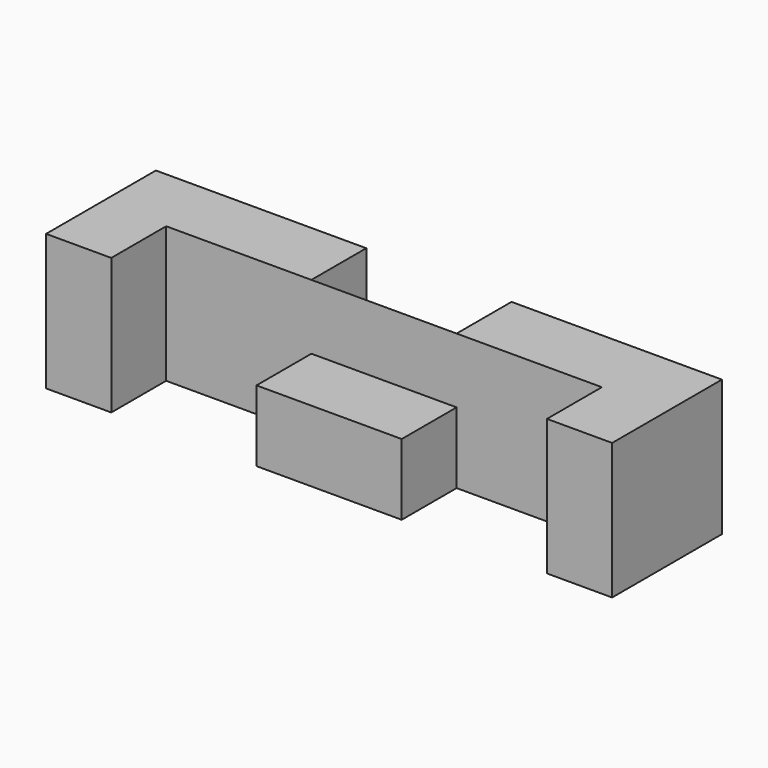
from build123d import *

# Parameters (mm, degrees)
F1_DEPTH = 6
F2_W     = 5.7
F2_H     = 11.9
F2_W_2   = 12.7
F2_H_2   = 6.217251
F3_DEPTH = 6


with BuildPart() as f1:
    # F0 (on Front) → F1 (new body)
    with BuildSketch(Plane.XZ):
        Polygon((5.555517, 9.958767), (-12.844483, 9.958767), (-12.844483, -1.941233), (36.655517, -1.941233), (36.655517, 9.958767), (18.255517, 9.958767), (18.255517, 4.276018), (5.555517, 4.276018), align=None)
    extrude(amount=F1_DEPTH)

    # F2 (on face) → F3 (join)
    with BuildSketch(Plane.XZ.offset(6)):
        with Locations((-9.994483, 4.008767)):
            Rectangle(F2_W, F2_H)
        with Locations((11.905517, 1.167392)):
            Rectangle(F2_W_2, F2_H_2)
        with Locations((33.805517, 4.008767)):
            Rectangle(F2_W, F2_H)
    extrude(amount=F3_DEPTH)


solid = f1.part
